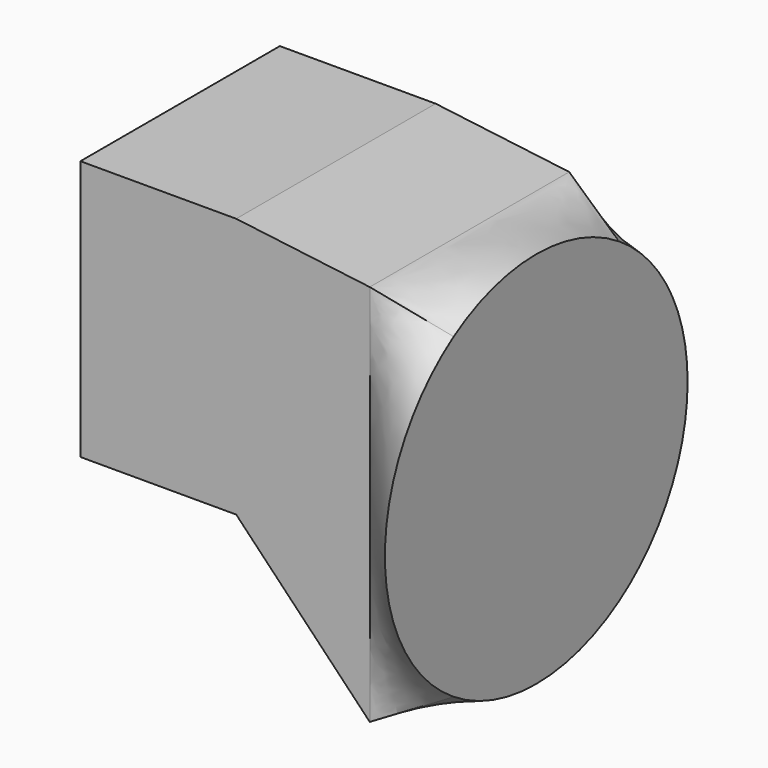
from build123d import *

# Parameters (mm, degrees)
SKETCH073_W = 22.4
SKETCH073_H = 34.4
SKETCH074_W = 22.4
SKETCH074_H = 23.4
SKETCH075_W = 22.4
SKETCH075_H = 23.4
SKETCH072_R = 17
SKETCH076_W = 22.4
SKETCH076_H = 34.4


with BuildPart() as loft008:
    # Sketch073 → Loft008 section 0
    with BuildSketch(Plane(origin=(24, 0, 19.5), x_dir=(0, 1, 0), z_dir=(1, 0, 0))):
        with Locations((0, 6.2)):
            Rectangle(SKETCH073_W, SKETCH073_H)
    # Sketch074 → Loft008 section 1
    with BuildSketch(Plane(origin=(12, 0, 19.5), x_dir=(0, 1, 0), z_dir=(1, 0, 0))):
        with Locations((0, 13.2)):
            Rectangle(SKETCH074_W, SKETCH074_H)
    # Sketch075 → Loft008 section 2
    with BuildSketch(Plane(origin=(-2, 0, 19.5), x_dir=(0, 1, 0), z_dir=(1, 0, 0))):
        with Locations((0, 13.2)):
            Rectangle(SKETCH075_W, SKETCH075_H)
    loft(ruled=True)


with BuildPart() as fusion005:
    # Sketch072 → Loft007 section 0
    with BuildSketch(Plane(origin=(30, 0, 19.5), x_dir=(0, 1, 0), z_dir=(1, 0, 0))):
        with Locations((0, 6.4)):
            Circle(SKETCH072_R)
    # Sketch076 → Loft007 section 1
    with BuildSketch(Plane(origin=(24, 0, 19.5), x_dir=(0, 1, 0), z_dir=(1, 0, 0))):
        with Locations((0, 6.2)):
            Rectangle(SKETCH076_W, SKETCH076_H)
    loft()

    # Fusion005: union Loft008
    add(loft008.part)


solid = fusion005.part
